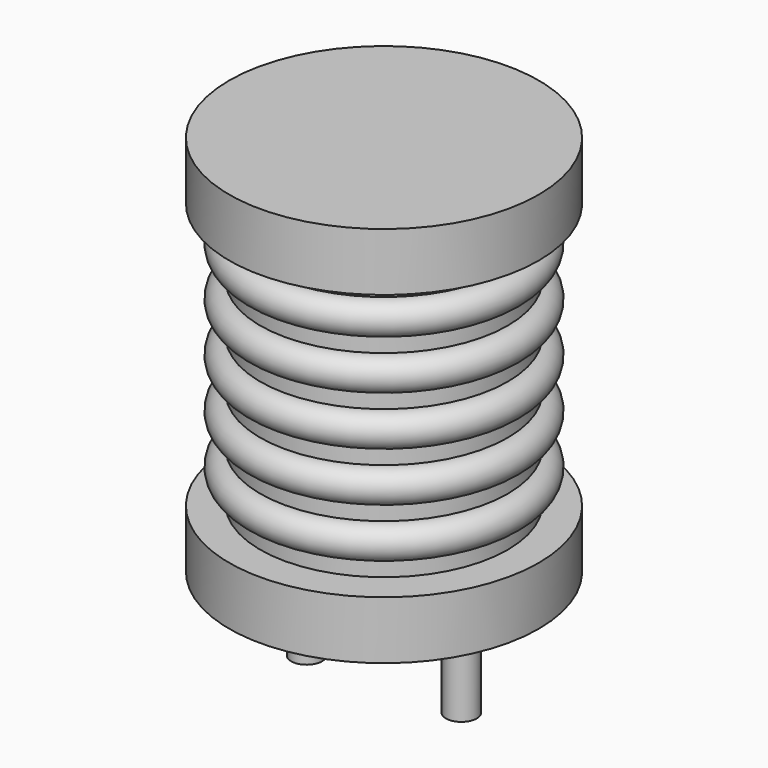
from build123d import *

# Parameters (mm, degrees)
SKETCH001_R  = 0.5
PAD001_DEPTH = 3.5


with BuildPart() as pad001:
    # Sketch001 → Pad001 (new body)
    with BuildSketch(Plane.XY.offset(0.5)):
        Circle(SKETCH001_R)
        with Locations((5, 0)):
            Circle(SKETCH001_R)
    extrude(amount=-PAD001_DEPTH)


with BuildPart() as revolution:
    # Sketch → Revolution (revolve)
    with BuildSketch(Plane(origin=(2.5, 0, 0), x_dir=(1, 0, 0), z_dir=(0, -1, 0))):
        Polygon((0, 0.05), (1.5, 0.05), (1.5, 0.2), (5, 0.2), (5, 2.075), (1, 2.075), (1, 10.675), (5, 10.675), (5, 12.55), (0, 12.55), align=None)
    revolve(axis=Axis((2.5, 0, 0), (0, 0, 1)))


with BuildPart() as revolution001:
    # Sketch002 → Revolution001 (revolve)
    with BuildSketch(Plane(origin=(2.5, 0, 0), x_dir=(1, 0, 0), z_dir=(0, -1, 0))):
        with BuildLine():
            Line((4, 2.125), (1, 2.125))
            Line((1, 2.125), (1, 10.625))
            Line((1, 10.625), (4, 10.625))
            Line((4, 10.625), (4, 10.09375))
            ThreePointArc((4, 9.03125), (4.53125, 9.5625), (4, 10.09375))
            Line((4, 9.03125), (4, 8.5))
            ThreePointArc((4, 7.4375), (4.53125, 7.96875), (4, 8.5))
            Line((4, 7.4375), (4, 6.90625))
            ThreePointArc((4, 5.84375), (4.53125, 6.375), (4, 6.90625))
            Line((4, 5.84375), (4, 5.3125))
            ThreePointArc((4, 4.25), (4.53125, 4.78125), (4, 5.3125))
            Line((4, 4.25), (4, 3.71875))
            ThreePointArc((4, 2.65625), (4.53125, 3.1875), (4, 3.71875))
            Line((4, 2.125), (4, 2.65625))
        make_face()
    revolve(axis=Axis((2.5, 0, 0), (0, 0, 1)))


solid = Compound([pad001.part, revolution.part, revolution001.part])
